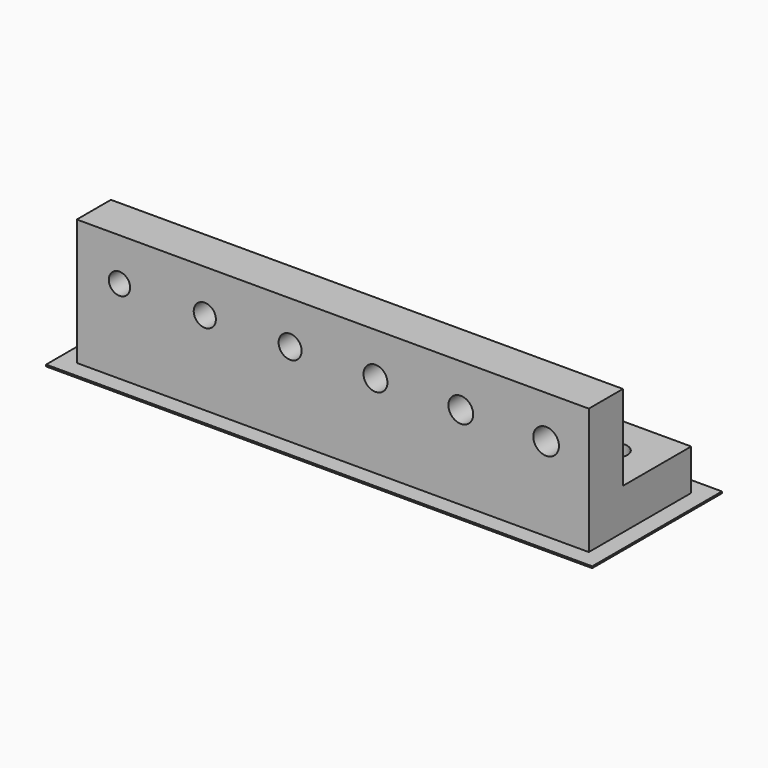
from build123d import *

# Parameters (mm, degrees)
F0_W     = 60
F0_H     = 15
F1_DEPTH = 5
F2_W     = 60
F2_H     = 5
F3_DEPTH = 10
F4_R     = 1.25
F4_R_2   = 1.3
F4_R_3   = 1.35
F4_R_4   = 1.4
F4_R_5   = 1.45
F4_R_6   = 1.5
F5_DEPTH = 5
F6_R     = 1.5
F6_R_2   = 1.45
F6_R_3   = 1.4
F6_R_4   = 1.35
F6_R_5   = 1.3
F6_R_6   = 1.25
F7_DEPTH = 5
F8_W     = 64
F8_H     = 19
F8_W_2   = 60
F8_H_2   = 15
F9_DEPTH = 0.2


with BuildPart() as f1:
    # F0 (on Top) → F1 (new body)
    with BuildSketch(Plane.XY):
        with Locations((30, 7.5)):
            Rectangle(F0_W, F0_H)
    extrude(amount=F1_DEPTH)

    # F2 (on face) → F3 (join)
    with BuildSketch(Plane.XY.offset(5)):
        with Locations((30, 2.5)):
            Rectangle(F2_W, F2_H)
    extrude(amount=F3_DEPTH)

    # F4 (on face) → F5 (cut, through all)
    with BuildSketch(Plane.XY.offset(5)):
        with Locations((5, 10)):
            Circle(F4_R)
        with Locations((15, 10)):
            Circle(F4_R_2)
        with Locations((25, 10)):
            Circle(F4_R_3)
        with Locations((35, 10)):
            Circle(F4_R_4)
        with Locations((45, 10)):
            Circle(F4_R_5)
        with Locations((55, 10)):
            Circle(F4_R_6)
    extrude(amount=-F5_DEPTH, mode=Mode.SUBTRACT)

    # F6 (on face) → F7 (cut, through all)
    with BuildSketch(Plane(origin=(0, 5, 0), x_dir=(-1, 0, 0), z_dir=(0, 1, 0))):
        with Locations((-55, 10)):
            Circle(F6_R)
        with Locations((-45, 10)):
            Circle(F6_R_2)
        with Locations((-35, 10)):
            Circle(F6_R_3)
        with Locations((-25, 10)):
            Circle(F6_R_4)
        with Locations((-15, 10)):
            Circle(F6_R_5)
        with Locations((-5, 10)):
            Circle(F6_R_6)
    extrude(amount=-F7_DEPTH, mode=Mode.SUBTRACT)

    # F8 (on Top) → F9 (join)
    with BuildSketch(Plane.XY):
        with Locations((30, 7.5)):
            Rectangle(F8_W, F8_H)
        with Locations((30, 7.5)):
            Rectangle(F8_W_2, F8_H_2, mode=Mode.SUBTRACT)
    extrude(amount=F9_DEPTH)


solid = f1.part
